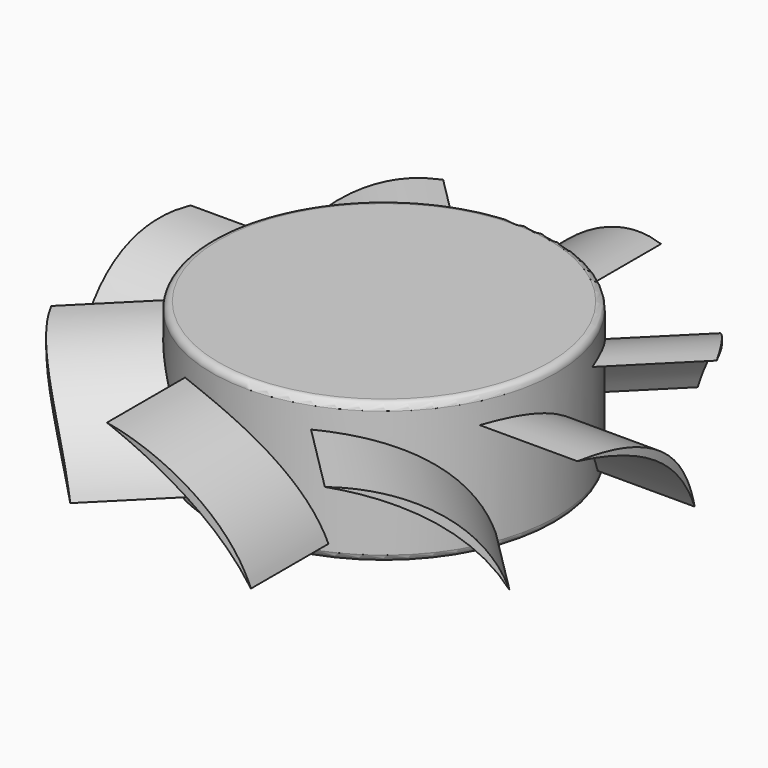
from build123d import *

# Parameters (mm, degrees)
SKETCH072_R           = 12.25
PAD027_DEPTH          = 10
FILLET040_R           = 0.5
PAD030_DEPTH          = 7.5
SKETCH063_R           = 32.89
SKETCH063_R_2         = 18.75
POCKET020_DEPTH       = 94.210561
POLARPATTERN006_COUNT = 8


with BuildPart() as part:
    # Sketch072 → Pad027 (new body)
    with BuildSketch(Plane.XY):
        Circle(SKETCH072_R)
    extrude(amount=PAD027_DEPTH)

    # Fillet040
    fillet040_edges = [part.edges().sort_by_distance(p)[0] for p in [
        (-12.25, 0, 10),
        (-12.25, 0, 0),
    ]]
    fillet(fillet040_edges, radius=FILLET040_R)

    # Sketch085 (on DatumPlane) → Pad030 (join, symmetric)
    with BuildSketch(Plane(origin=(0, 13, -2), x_dir=(1, 0, 0), z_dir=(0, -1, 0))):
        with BuildLine():
            ThreePointArc((5.3, 10), (-1.072659, 8.299055), (-5, 3))
            ThreePointArc((5.3, 10), (-0.742753, 7.813623), (-5, 3))
        make_face()
    pad030 = extrude(amount=PAD030_DEPTH, both=True)

    # Sketch063 (on Face7 of Pad030) → Pocket020 (cut, through all)
    with BuildSketch(Plane.XY.offset(10)):
        Circle(SKETCH063_R)
        Circle(SKETCH063_R_2, mode=Mode.SUBTRACT)
    pocket020 = extrude(amount=-POCKET020_DEPTH, mode=Mode.SUBTRACT)

    # PolarPattern006: Pad030, Pocket020 ×8 about axis
    polarpattern006_axis = Axis((0, 0, 0), (0, 0, 1))
    for i in range(1, POLARPATTERN006_COUNT):
        add(pad030.rotate(polarpattern006_axis, i * 360 / POLARPATTERN006_COUNT))
        add(pocket020.rotate(polarpattern006_axis, i * 360 / POLARPATTERN006_COUNT), mode=Mode.SUBTRACT)


solid = part.part
